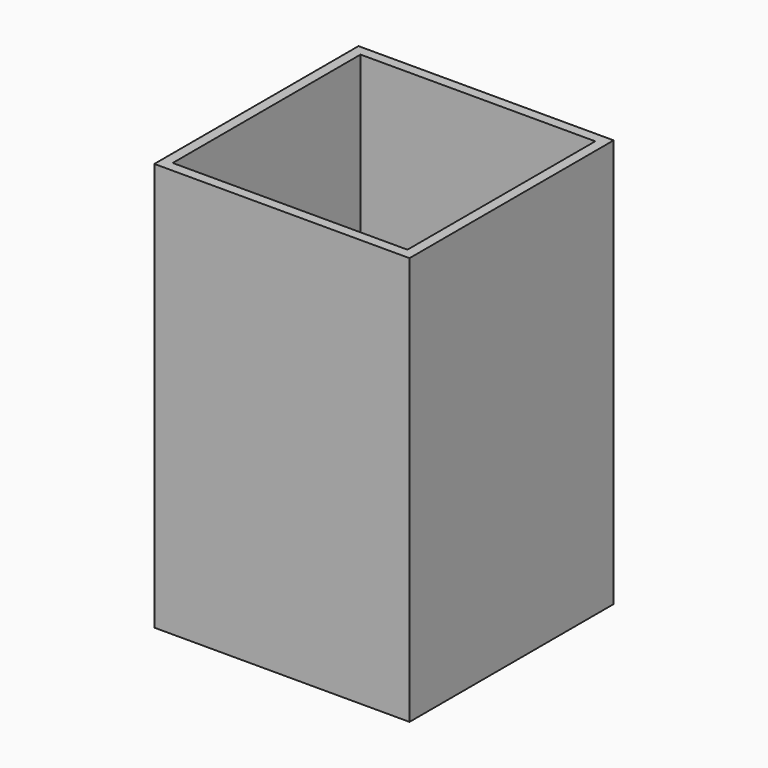
from build123d import *

# Parameters (mm, degrees)
BOX_W        = 46
BOX_H        = 46
BOX_DEPTH    = 80
BOX001_W     = 50
BOX001_H     = 50
BOX001_DEPTH = 80


with BuildPart() as cub_base:
    # Box → Box (new body)
    with BuildSketch(Plane(origin=(2, 2, 0), x_dir=(1, 0, 0), z_dir=(0, 0, 1))):
        with Locations((23, 23)):
            Rectangle(BOX_W, BOX_H)
    extrude(amount=BOX_DEPTH)


with BuildPart() as cut:
    # Box001 → Box001 (new body)
    with BuildSketch(Plane.XY):
        with Locations((25, 25)):
            Rectangle(BOX001_W, BOX001_H)
    extrude(amount=BOX001_DEPTH)

    # Cut: cut Cub_Base
    add(cub_base.part, mode=Mode.SUBTRACT)


solid = cut.part
